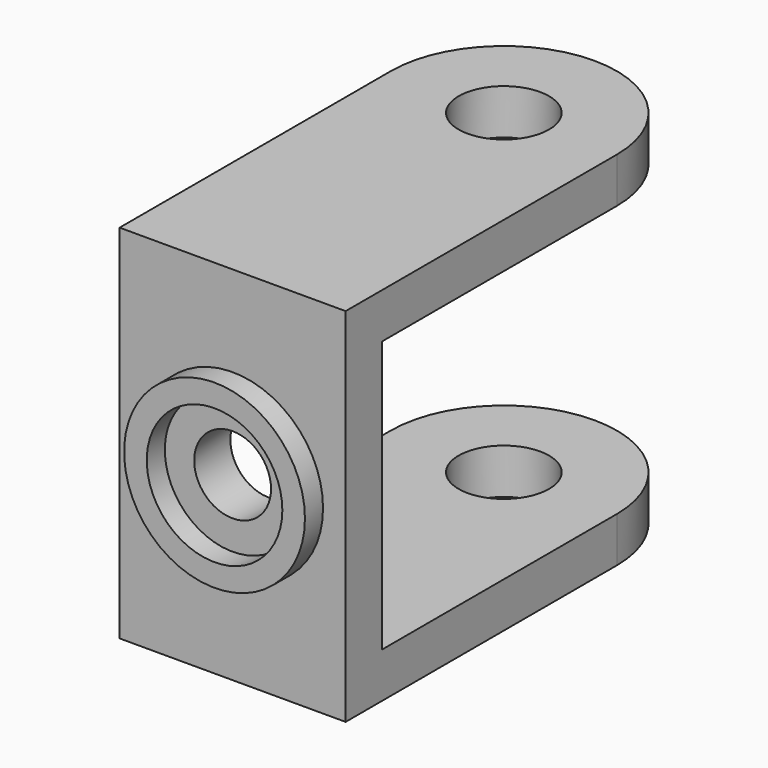
from build123d import *

# Parameters (mm, degrees)
SKETCH_R        = 10
PAD_DEPTH       = 40
SKETCH002_W     = 90
SKETCH002_H     = 60
POCKET_DEPTH    = 50.001
SKETCH003_R     = 20
SKETCH003_R_2   = 15
PAD001_DEPTH    = 5
SKETCH004_R     = 8.5
POCKET001_DEPTH = 100.001


with BuildPart() as part:
    # Sketch → Pad (new body, symmetric)
    with BuildSketch(Plane.XY):
        with BuildLine():
            Line((-25, -75), (-25, 0))
            ThreePointArc((25, 0), (0, 25), (-25, 0))
            Line((25, 0), (25, -75))
            Line((25, -75), (-25, -75))
        make_face()
        Circle(SKETCH_R, mode=Mode.SUBTRACT)
    extrude(amount=PAD_DEPTH, both=True)

    # Sketch002 (on Face3 of Pad) → Pocket (cut, through all)
    with BuildSketch(Plane.YZ.offset(25)):
        with Locations((-20, 0)):
            Rectangle(SKETCH002_W, SKETCH002_H)
    extrude(amount=-POCKET_DEPTH, mode=Mode.SUBTRACT)

    # Sketch003 (on Face9 of Pocket) → Pad001 (join)
    with BuildSketch(Plane.XZ.offset(75)):
        Circle(SKETCH003_R)
        Circle(SKETCH003_R_2, mode=Mode.SUBTRACT)
    extrude(amount=PAD001_DEPTH)

    # Sketch004 (on Face16 of Pad001) → Pocket001 (cut, through all)
    with BuildSketch(Plane.XZ.offset(75)):
        Circle(SKETCH004_R)
    extrude(amount=-POCKET001_DEPTH, mode=Mode.SUBTRACT)


solid = part.part
